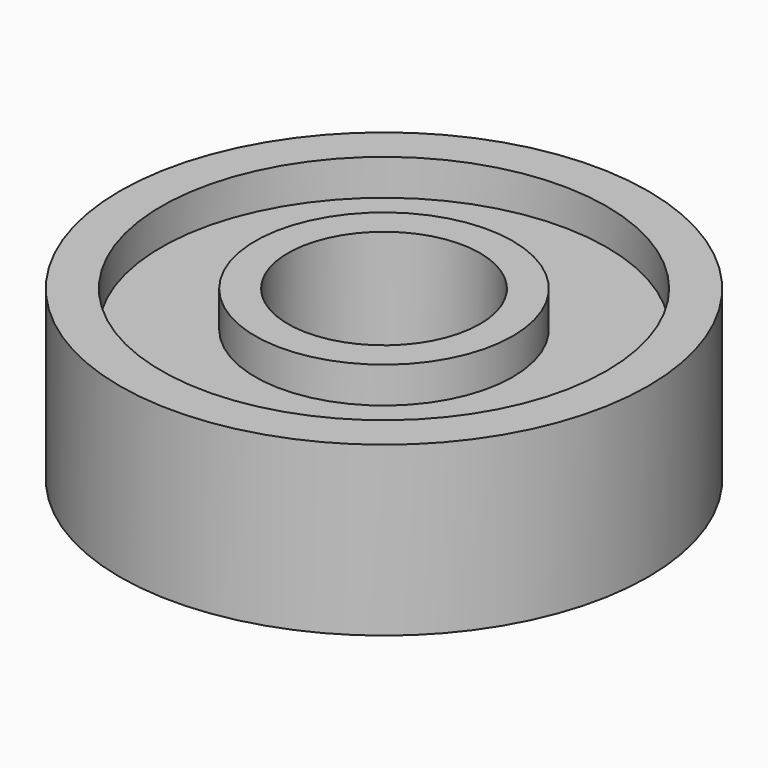
from build123d import *

# Parameters (mm, degrees)
F0_R     = 11
F0_R_2   = 9.274372
F0_R_3   = 5.362394
F0_R_4   = 4
F1_DEPTH = 3.5
F2_DEPTH = 2


with BuildPart() as f1:
    # F0 (on Top) → F1 (new body, symmetric)
    with BuildSketch(Plane.XY):
        Circle(F0_R)
        Circle(F0_R_2, mode=Mode.SUBTRACT)
        Circle(F0_R_3)
        Circle(F0_R_4, mode=Mode.SUBTRACT)
    extrude(amount=F1_DEPTH, both=True)

    # F0 (on Top) → F2 (join)
    with BuildSketch(Plane.XY):
        Circle(F0_R_2)
        Circle(F0_R_3, mode=Mode.SUBTRACT)
    extrude(amount=F2_DEPTH)


solid = f1.part
